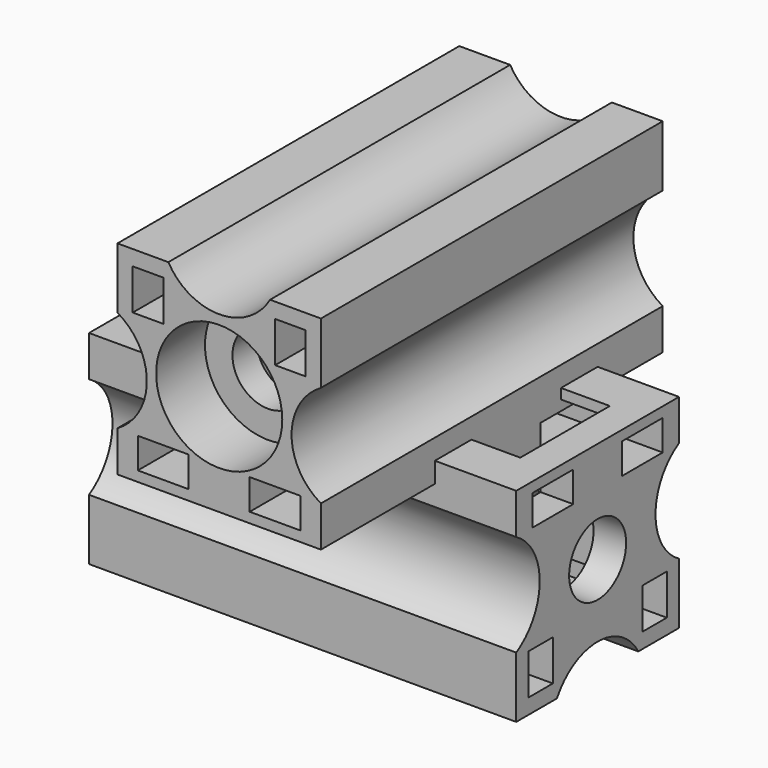
from build123d import *

# Parameters (mm, degrees)
SKETCH008_R             = 1.75
PAD001_DEPTH            = 21
SKETCH009_W             = 5.5
SKETCH009_H             = 2.4
POCKET003_DEPTH         = 8
SKETCH010_R             = 3.1
POCKET004_DEPTH         = 3
SKETCH014_W             = 1.5
SKETCH014_H             = 2
SKETCH014_W_2           = 2.5
SKETCH014_H_2           = 1.5
POCKET005_DEPTH         = 21.001
BODY002_ROLL_ANGLE      = 180
BODY002_PLACEMENT_ANGLE = 90
SKETCH_R                = 1.75
PAD_DEPTH               = 21
SKETCH002_W             = 5.5
SKETCH002_H             = 2.4
POCKET_DEPTH            = 8
SKETCH003_R             = 3.1
POCKET001_DEPTH         = 3
SKETCH007_W             = 1.5
SKETCH007_H             = 2
SKETCH007_W_2           = 2.5
SKETCH007_H_2           = 1.5
POCKET002_DEPTH         = 21.001


with BuildPart() as body002:
    # Sketch008 → Pad001 (new body)
    with BuildSketch(Plane.YZ):
        with BuildLine():
            Line((-5, 8), (-5, 10))
            Line((-5, 10), (5, 10))
            Line((5, 10), (5, 8))
            ThreePointArc((5, 8), (3.556624, 5.5), (5, 3))
            Line((5, 3), (5, 0))
            Line((5, 0), (2.5, 0))
            ThreePointArc((2.5, 0), (0, 1.443376), (-2.5, 0))
            Line((-2.5, 0), (-5, 0))
            Line((-5, 0), (-5, 3))
            ThreePointArc((-5, 3), (-3.556624, 5.5), (-5, 8))
        make_face()
        with Locations((0, 5)):
            Circle(SKETCH008_R, mode=Mode.SUBTRACT)
    extrude(amount=PAD001_DEPTH)

    # Sketch009 → Pocket003 (cut)
    with BuildSketch(Plane(origin=(0, 0, 10), x_dir=(0, -1, 0), z_dir=(0, 0, 1))):
        with Locations((0, 5.7)):
            Rectangle(SKETCH009_W, SKETCH009_H)
        with Locations((0, 18.2)):
            Rectangle(SKETCH009_W, SKETCH009_H)
    extrude(amount=-POCKET003_DEPTH, mode=Mode.SUBTRACT)

    # Sketch010 (on Face4 of Pocket003) → Pocket004 (cut)
    with BuildSketch(Plane(origin=(0, 0, 0), x_dir=(0, 1, 0), z_dir=(-1, 0, 0))):
        with Locations((0, -5)):
            Circle(SKETCH010_R)
    extrude(amount=-POCKET004_DEPTH, mode=Mode.SUBTRACT)

    # Sketch014 (on Face4 of Pocket004) → Pocket005 (cut, through all)
    with BuildSketch(Plane(origin=(0, 0, 0), x_dir=(0, 1, 0), z_dir=(-1, 0, 0))):
        with Locations((-3.5, -1.75)):
            Rectangle(SKETCH014_W, SKETCH014_H)
        with Locations((3.5, -1.75)):
            Rectangle(SKETCH014_W, SKETCH014_H)
        with Locations((-2.75, -8.75)):
            Rectangle(SKETCH014_W_2, SKETCH014_H_2)
        with Locations((2.75, -8.75)):
            Rectangle(SKETCH014_W_2, SKETCH014_H_2)
    extrude(amount=-POCKET005_DEPTH, mode=Mode.SUBTRACT)


with BuildPart() as body002_1:
    # Body002 roll: moved
    add(body002.part.rotate(Axis((0, 0, 0), (1, 0, 0)), BODY002_ROLL_ANGLE))


with BuildPart() as body002_2:
    # Body002 placement: moved
    add(body002_1.part.moved(Location((12, -12, 19))).rotate(Axis((12, -12, 19), (0, 0, 1)), BODY002_PLACEMENT_ANGLE))


with BuildPart() as fusion:
    # Sketch → Pad (new body)
    with BuildSketch(Plane.YZ):
        with BuildLine():
            Line((-5, 8), (-5, 10))
            Line((-5, 10), (5, 10))
            Line((5, 10), (5, 8))
            ThreePointArc((5, 8), (3.556624, 5.5), (5, 3))
            Line((5, 3), (5, 0))
            Line((5, 0), (2.5, 0))
            ThreePointArc((2.5, 0), (0, 1.443376), (-2.5, 0))
            Line((-2.5, 0), (-5, 0))
            Line((-5, 0), (-5, 3))
            ThreePointArc((-5, 3), (-3.556624, 5.5), (-5, 8))
        make_face()
        with Locations((0, 5)):
            Circle(SKETCH_R, mode=Mode.SUBTRACT)
    extrude(amount=PAD_DEPTH)

    # Sketch002 → Pocket (cut)
    with BuildSketch(Plane(origin=(0, 0, 10), x_dir=(0, -1, 0), z_dir=(0, 0, 1))):
        with Locations((0, 5.7)):
            Rectangle(SKETCH002_W, SKETCH002_H)
        with Locations((0, 18.2)):
            Rectangle(SKETCH002_W, SKETCH002_H)
    extrude(amount=-POCKET_DEPTH, mode=Mode.SUBTRACT)

    # Sketch003 (on Face4 of Pocket) → Pocket001 (cut)
    with BuildSketch(Plane(origin=(0, 0, 0), x_dir=(0, 1, 0), z_dir=(-1, 0, 0))):
        with Locations((0, -5)):
            Circle(SKETCH003_R)
    extrude(amount=-POCKET001_DEPTH, mode=Mode.SUBTRACT)

    # Sketch007 (on Face4 of Pocket001) → Pocket002 (cut, through all)
    with BuildSketch(Plane(origin=(0, 0, 0), x_dir=(0, 1, 0), z_dir=(-1, 0, 0))):
        with Locations((-3.5, -1.75)):
            Rectangle(SKETCH007_W, SKETCH007_H)
        with Locations((3.5, -1.75)):
            Rectangle(SKETCH007_W, SKETCH007_H)
        with Locations((-2.75, -8.75)):
            Rectangle(SKETCH007_W_2, SKETCH007_H_2)
        with Locations((2.75, -8.75)):
            Rectangle(SKETCH007_W_2, SKETCH007_H_2)
    extrude(amount=-POCKET002_DEPTH, mode=Mode.SUBTRACT)

    # Fusion: union Body002
    add(body002_2.part)


solid = fusion.part
